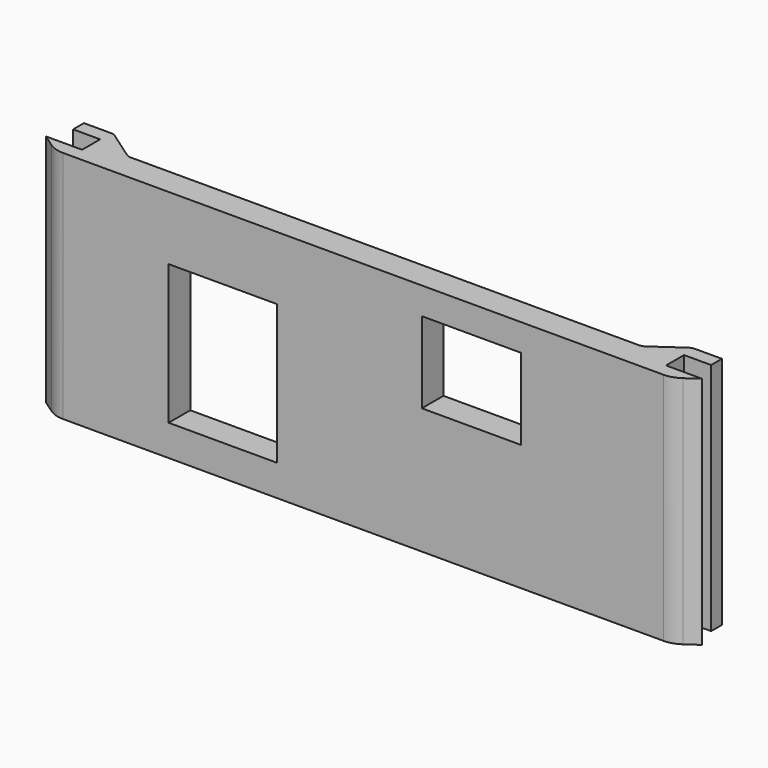
from build123d import *

# Parameters (mm, degrees)
PAD_DEPTH     = 26
SKETCH007_W   = 12
SKETCH007_H   = 15.5
SKETCH007_W_2 = 11
SKETCH007_H_2 = 9
POCKET_DEPTH  = 5


with BuildPart() as part:
    # Sketch008 → Pad (new body)
    with BuildSketch(Plane.XY.offset(3)):
        with BuildLine():
            Line((-35.4, -39.6597), (-32.4, -39.6597))
            Line((-32.4, -39.6597), (-32.4, -42.1597))
            Line((-32.4, -42.1597), (-36.4, -42.1597))
            Line((-36.4, -42.1597), (-35.032611, -43.117156))
            ThreePointArc((-35.032611, -43.117156), (-34.213999, -43.520851), (-33.311882, -43.6597))
            Line((-33.311882, -43.6597), (33.311882, -43.6597))
            ThreePointArc((33.311882, -43.6597), (34.213999, -43.520851), (35.032611, -43.117156))
            Line((35.032611, -43.117156), (36.4, -42.1597))
            Line((36.4, -42.1597), (32.4, -42.1597))
            Line((32.4, -42.1597), (32.4, -39.6597))
            Line((32.4, -39.6597), (35.4, -39.6597))
            Line((35.4, -39.6597), (35.4, -38.1597))
            Line((32.4, -38.1597), (35.4, -38.1597))
            ThreePointArc((32.4, -38.1597), (32.099294, -38.205983), (31.826424, -38.340548))
            Line((28.772609, -40.478852), (31.826424, -38.340548))
            ThreePointArc((28.199032, -40.6597), (28.499738, -40.613417), (28.772609, -40.478852))
            Line((-28.199032, -40.6597), (28.199032, -40.6597))
            ThreePointArc((-28.772609, -40.478852), (-28.499738, -40.613417), (-28.199032, -40.6597))
            Line((-31.826424, -38.340548), (-28.772609, -40.478852))
            ThreePointArc((-31.826424, -38.340548), (-32.099294, -38.205983), (-32.4, -38.1597))
            Line((-35.4, -38.1597), (-32.4, -38.1597))
            Line((-35.4, -38.1597), (-35.4, -39.6597))
        make_face()
    extrude(amount=PAD_DEPTH)

    # Sketch007 → Pocket (cut)
    with BuildSketch(Plane(origin=(0, -43.6597, 3), x_dir=(1, 0, 0), z_dir=(0, -1, 0))):
        with Locations((-15.6, 11.2)):
            Rectangle(SKETCH007_W, SKETCH007_H)
        with Locations((12, 18.5)):
            Rectangle(SKETCH007_W_2, SKETCH007_H_2)
    extrude(amount=-POCKET_DEPTH, mode=Mode.SUBTRACT)


solid = part.part
